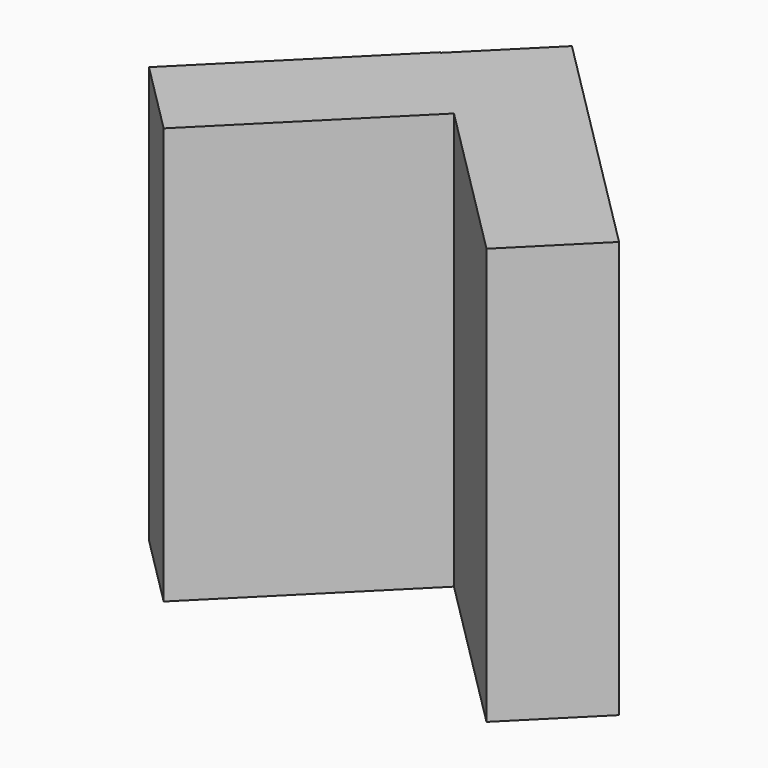
from build123d import *

# Parameters (mm, degrees)
BOX005_W                  = 0.05
BOX005_H                  = 0.11
BOX005_DEPTH              = 0.2
BOX005_PLACEMENT_ANGLE    = -45
BOX004_W                  = 0.05
BOX004_H                  = 0.16
BOX004_DEPTH              = 0.2
BOX004_PLACEMENT_ANGLE    = 45
FUSION002_PLACEMENT_ANGLE = 180


with BuildPart() as kub005:
    # Box005 → Box005 (new body)
    with BuildSketch(Plane.XY):
        with Locations((0.025, 0.055)):
            Rectangle(BOX005_W, BOX005_H)
    extrude(amount=BOX005_DEPTH)


with BuildPart() as kub005_1:
    # Box005 placement: moved
    add(kub005.part.moved(Location((0, 1.97, 0))).rotate(Axis((0, 1.97, 0), (0, 0, 1)), BOX005_PLACEMENT_ANGLE))


with BuildPart() as fusion002:
    # Box004 → Box004 (new body)
    with BuildSketch(Plane.XY):
        with Locations((0.025, 0.08)):
            Rectangle(BOX004_W, BOX004_H)
    extrude(amount=BOX004_DEPTH)


with BuildPart() as fusion002_1:
    # Box004 placement: moved
    add(fusion002.part.moved(Location((0, 1.9, 0))).rotate(Axis((0, 1.9, 0), (0, 0, 1)), BOX004_PLACEMENT_ANGLE))

    # Fusion002: union Kub005
    add(kub005_1.part)


with BuildPart() as fusion002_2:
    # Fusion002 placement: moved
    add(fusion002_1.part.rotate(Axis((0, 0, 0), (0, 0, 1)), FUSION002_PLACEMENT_ANGLE))


solid = fusion002_2.part
